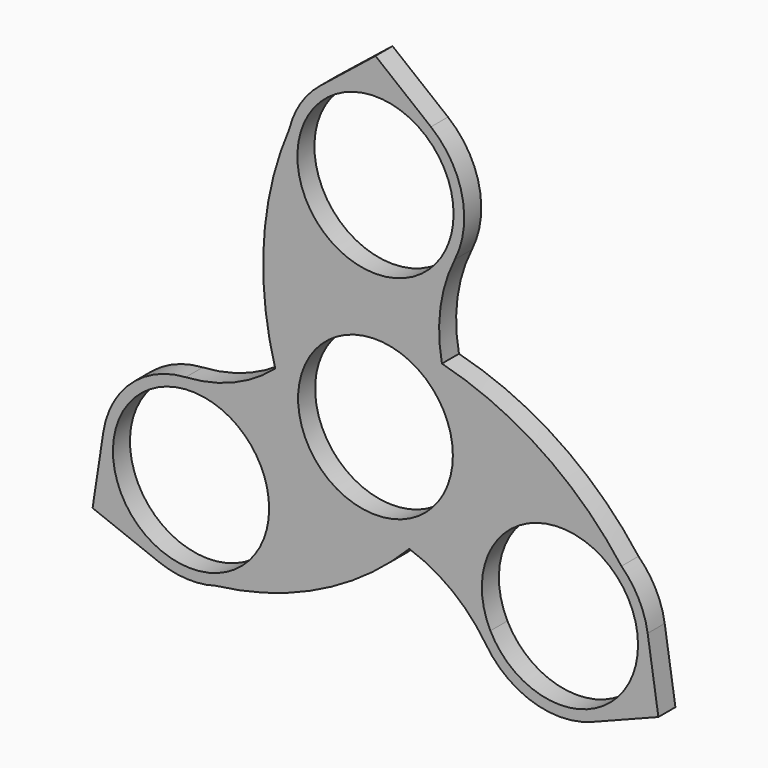
from build123d import *

# Parameters (mm, degrees)
F0_R     = 10.9
F1_DEPTH = 3


with BuildPart() as f1:
    # F0 (on Front) → F1 (new body)
    with BuildSketch(Plane.XZ):
        with BuildLine():
            ThreePointArc((-103.010684, 68.484581), (-105.728194, 65.462684), (-107.332646, 61.728723))
            ThreePointArc((-107.332646, 61.728723), (-110.919129, 46.724993), (-109.322923, 31.381365))
            ThreePointArc((-109.322923, 31.381365), (-115.194842, 27.743972), (-121.92824, 26.204033))
            ThreePointArc((-121.92824, 26.204033), (-129.60444, 22.960502), (-133.536128, 15.612961))
            Line((-133.536128, 15.612961), (-135.046402, 5.720314))
            Line((-135.046402, 5.720314), (-125.723981, 2.081926))
            ThreePointArc((-125.723981, 2.081926), (-121.748186, 1.239441), (-117.712255, 1.716926))
            ThreePointArc((-117.712255, 1.716926), (-102.925402, 6.112806), (-90.435534, 15.166975))
            ThreePointArc((-90.435534, 15.166975), (-84.349499, 11.90044), (-79.649174, 6.839116))
            ThreePointArc((-79.649174, 6.839116), (-73.002094, 1.813097), (-64.673093, 2.081926))
            Line((-64.673093, 2.081926), (-55.350671, 5.720314))
            Line((-55.350671, 5.720314), (-56.860946, 15.612961))
            ThreePointArc((-56.860946, 15.612961), (-58.119231, 19.477343), (-60.55071, 22.733819))
            ThreePointArc((-60.55071, 22.733819), (-71.75108, 33.341669), (-85.837154, 39.631129))
            ThreePointArc((-85.837154, 39.631129), (-86.05127, 46.535056), (-84.018197, 53.13632))
            ThreePointArc((-84.018197, 53.13632), (-82.989076, 61.405869), (-87.38639, 68.484581))
            Line((-87.38639, 68.484581), (-95.198537, 74.738841))
            Line((-95.198537, 74.738841), (-103.010684, 68.484581))
        make_face()
        with BuildLine():
            ThreePointArc((-120.621098, 24.712317), (-113.206213, 21.304741), (-110.179299, 13.726489))
            ThreePointArc((-110.179299, 13.726489), (-129.152385, 6.148238), (-120.621098, 24.712317))
        make_face(mode=Mode.SUBTRACT)
        with Locations((-95.198537, 28.726489)):
            Circle(F0_R, mode=Mode.SUBTRACT)
        with BuildLine():
            ThreePointArc((-79.010881, 8.716992), (-71.79419, 24.42051), (-58.217775, 13.726489))
            ThreePointArc((-58.217775, 13.726489), (-66.64136, 3.032468), (-79.010881, 8.716992))
        make_face(mode=Mode.SUBTRACT)
        with BuildLine():
            ThreePointArc((-85.963632, 52.750159), (-105.748038, 61.842259), (-84.198537, 58.726489))
            ThreePointArc((-84.198537, 58.726489), (-84.649035, 55.61072), (-85.963632, 52.750159))
        make_face(mode=Mode.SUBTRACT)
    extrude(amount=F1_DEPTH)


solid = f1.part
